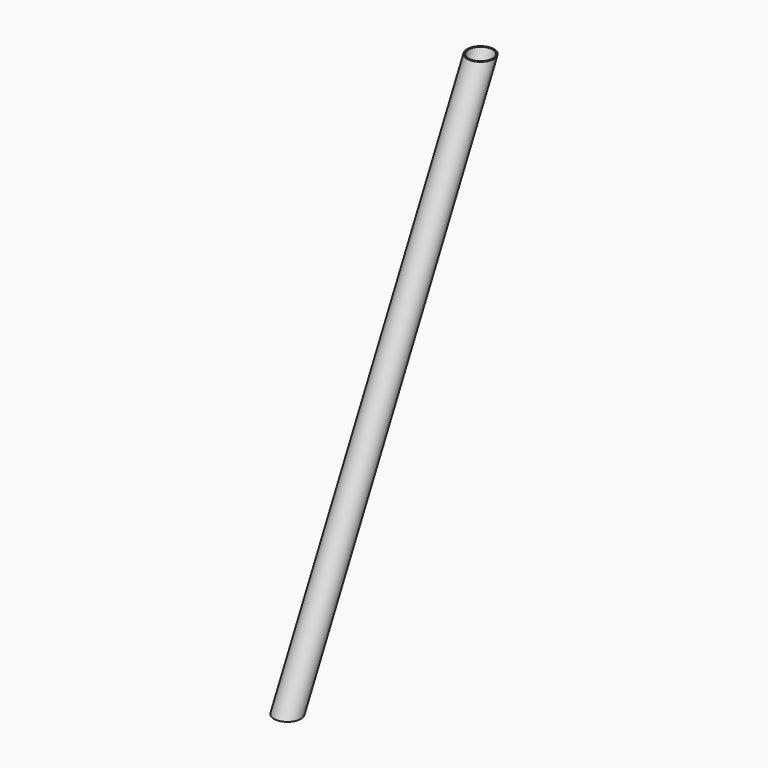
from build123d import *

# Parameters (mm, degrees)
F0_R   = 25.4
F0_R_2 = 22.86


with BuildPart() as f2:
    # F2: sweep along a path in F1
    with BuildLine(Plane.YZ) as f2_path:
        Line((0, 0), (457.2, 914.4))
    # F0 (on Top) → F2 (sweep)
    with BuildSketch(Plane.XY):
        Circle(F0_R)
        Circle(F0_R_2, mode=Mode.SUBTRACT)
    sweep(path=f2_path.line)


solid = f2.part
